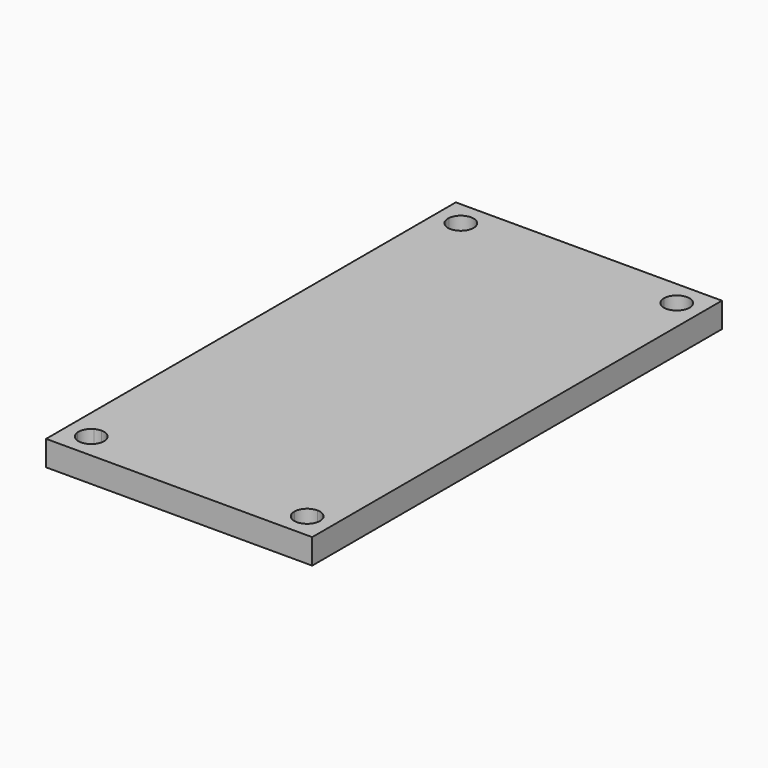
from build123d import *

# Parameters (mm, degrees)
F1_DEPTH = 5


with BuildPart() as f1:
    # F0 (on Top) → F1 (new body)
    with BuildSketch(Plane.XY):
        with BuildLine():
            Line((-24.0367678096, 46.2594399355), (-26.5, 51))
            Line((-26.5, 51), (-26.5, -51))
            Line((-26.5, -51), (-24.0367678096, -46.2594399355))
            ThreePointArc((-24.0367678096, -46.2594399355), (-23.7627659491, -44.8242490657), (-22.7458705011, -43.7750715305))
            Line((-22.7458705011, -43.7750715305), (-21.5, -41.3773584906))
            Line((-21.5, -41.3773584906), (-21.5, 41.3773584906))
            Line((-21.5, 41.3773584906), (-22.7458705011, 43.7750715305))
            ThreePointArc((-22.7458705011, 43.7750715305), (-23.7627659491, 44.8242490657), (-24.0367678096, 46.2594399355))
        make_face()
        with BuildLine():
            Line((26.5, 51), (-26.5, 51))
            Line((-26.5, 51), (-24.0367678096, 46.2594399355))
            ThreePointArc((-24.0367678096, 46.2594399355), (-21.3701114218, 48.5466898039), (-18.95, 46))
            Line((-18.95, 46), (18.95, 46))
            ThreePointArc((18.95, 46), (21.3701114218, 48.5466898039), (24.0367678096, 46.2594399355))
            Line((24.0367678096, 46.2594399355), (26.5, 51))
        make_face()
        with BuildLine():
            Line((26.5, -51), (26.5, 51))
            Line((26.5, 51), (24.0367678096, 46.2594399355))
            ThreePointArc((24.0367678096, 46.2594399355), (24.0466898039, 46.1298885782), (24.05, 46))
            ThreePointArc((24.05, 46), (23.6999397467, 44.7105175026), (22.7458705011, 43.7750715305))
            Line((22.7458705011, 43.7750715305), (21.5, 41.3773584906))
            Line((21.5, 41.3773584906), (21.5, -41.3773584906))
            Line((21.5, -41.3773584906), (22.7458705011, -43.7750715305))
            ThreePointArc((22.7458705011, -43.7750715305), (23.6999397467, -44.7105175026), (24.05, -46))
            ThreePointArc((24.05, -46), (24.0466898039, -46.1298885782), (24.0367678096, -46.2594399355))
            Line((24.0367678096, -46.2594399355), (26.5, -51))
        make_face()
        with BuildLine():
            Line((-24.0367678096, -46.2594399355), (-26.5, -51))
            Line((-26.5, -51), (26.5, -51))
            Line((26.5, -51), (24.0367678096, -46.2594399355))
            ThreePointArc((24.0367678096, -46.2594399355), (21.3701114218, -48.5466898039), (18.95, -46))
            Line((18.95, -46), (-18.95, -46))
            ThreePointArc((-18.95, -46), (-21.3701114218, -48.5466898039), (-24.0367678096, -46.2594399355))
        make_face()
        with BuildLine():
            ThreePointArc((-21.5, -43.45), (-19.696877708, -44.196877708), (-18.95, -46))
            Line((-18.95, -46), (18.95, -46))
            ThreePointArc((18.95, -46), (19.696877708, -44.196877708), (21.5, -43.45))
            Line((21.5, -43.45), (21.5, -41.3773584906))
            Line((21.5, -41.3773584906), (0, 0))
            Line((0, 0), (-21.5, -41.3773584906))
            Line((-21.5, -41.3773584906), (-21.5, -43.45))
        make_face()
        Polygon((21.5, -41.3773584906), (21.5, 41.3773584906), (0, 0), align=None)
        with BuildLine():
            Line((18.95, 46), (-18.95, 46))
            ThreePointArc((-18.95, 46), (-19.696877708, 44.196877708), (-21.5, 43.45))
            Line((-21.5, 43.45), (-21.5, 41.3773584906))
            Line((-21.5, 41.3773584906), (0, 0))
            Line((0, 0), (21.5, 41.3773584906))
            Line((21.5, 41.3773584906), (21.5, 43.45))
            ThreePointArc((21.5, 43.45), (19.696877708, 44.196877708), (18.95, 46))
        make_face()
        Polygon((0, 0), (-21.5, 41.3773584906), (-21.5, -41.3773584906), align=None)
        with BuildLine():
            ThreePointArc((21.5, -43.45), (22.143790495, -43.5326058688), (22.7458705011, -43.7750715305))
            Line((22.7458705011, -43.7750715305), (21.5, -41.3773584906))
            Line((21.5, -41.3773584906), (21.5, -43.45))
        make_face()
        with BuildLine():
            Line((-21.5, -41.3773584906), (-22.7458705011, -43.7750715305))
            ThreePointArc((-22.7458705011, -43.7750715305), (-22.143790495, -43.5326058688), (-21.5, -43.45))
            Line((-21.5, -43.45), (-21.5, -41.3773584906))
        make_face()
        with BuildLine():
            Line((21.5, 41.3773584906), (22.7458705011, 43.7750715305))
            ThreePointArc((22.7458705011, 43.7750715305), (22.143790495, 43.5326058688), (21.5, 43.45))
            Line((21.5, 43.45), (21.5, 41.3773584906))
        make_face()
        with BuildLine():
            ThreePointArc((-21.5, 43.45), (-22.143790495, 43.5326058688), (-22.7458705011, 43.7750715305))
            Line((-22.7458705011, 43.7750715305), (-21.5, 41.3773584906))
            Line((-21.5, 41.3773584906), (-21.5, 43.45))
        make_face()
    extrude(amount=F1_DEPTH)


solid = f1.part
